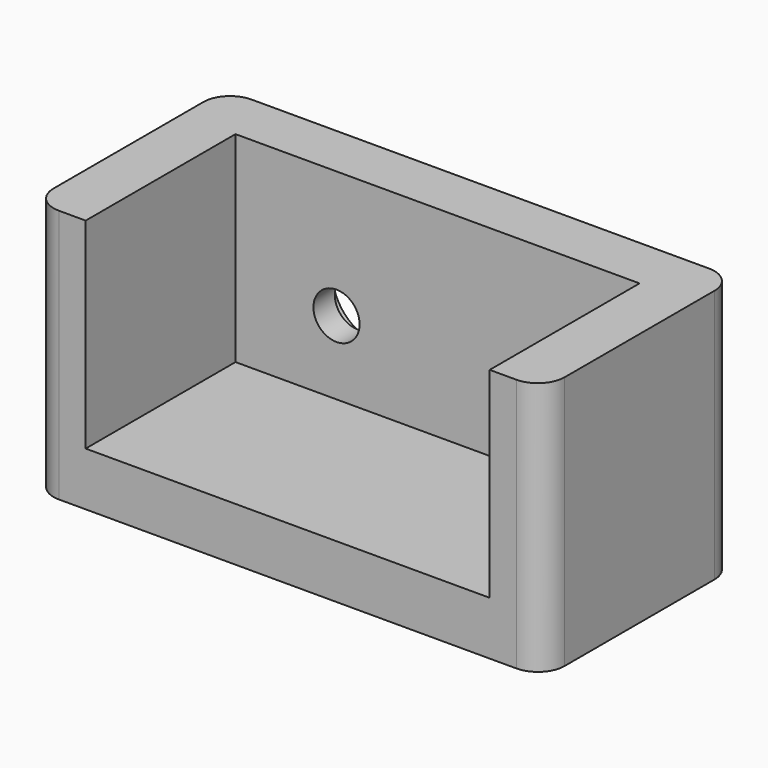
from build123d import *

# Parameters (mm, degrees)
F1_DEPTH = 19
F0_W     = 30.2
F0_H     = 14
F2_DEPTH = 4
F3_R     = 2
F4_R     = 3.5
F4_R_2   = 1.725
F5_DEPTH = 2
F6_DEPTH = 4


with BuildPart() as f1:
    # F0 (on Top) → F1 (new body)
    with BuildSketch(Plane.XY):
        Polygon((-4, 0), (0, 0), (0, 14), (30.2, 14), (30.2, 0), (34.2, 0), (34.2, 18), (-4, 18), align=None)
    extrude(amount=F1_DEPTH)

    # F0 (on Top) → F2 (join)
    with BuildSketch(Plane.XY):
        with Locations((15.1, 7)):
            Rectangle(F0_W, F0_H)
        Polygon((-4, 0), (0, 0), (0, 14), (30.2, 14), (30.2, 0), (34.2, 0), (34.2, 18), (-4, 18), align=None)
    extrude(amount=F2_DEPTH)

    # F3
    f3_edges = [f1.edges().sort_by_distance(p)[0] for p in [
        (-4, 18, 9.5),
        (34.2, 18, 9.5),
        (34.2, 0, 9.5),
        (-4, 0, 9.5),
    ]]
    fillet(f3_edges, radius=F3_R)

    # F4 (on face) → F5 (cut)
    with BuildSketch(Plane(origin=(0, 18, 0), x_dir=(-1, 0, 0), z_dir=(0, 1, 0))):
        with Locations((-7.55, 9.5)):
            Circle(F4_R)
        with Locations((-7.55, 9.5)):
            Circle(F4_R_2, mode=Mode.SUBTRACT)
        with Locations((-22.65, 9.5)):
            Circle(F4_R)
        with Locations((-22.65, 9.5)):
            Circle(F4_R_2, mode=Mode.SUBTRACT)
    extrude(amount=-F5_DEPTH, mode=Mode.SUBTRACT)

    # F4 (on face) → F6 (cut, through all)
    with BuildSketch(Plane(origin=(0, 18, 0), x_dir=(-1, 0, 0), z_dir=(0, 1, 0))):
        with Locations((-22.65, 9.5)):
            Circle(F4_R_2)
        with Locations((-7.55, 9.5)):
            Circle(F4_R_2)
    extrude(amount=-F6_DEPTH, mode=Mode.SUBTRACT)


solid = f1.part
